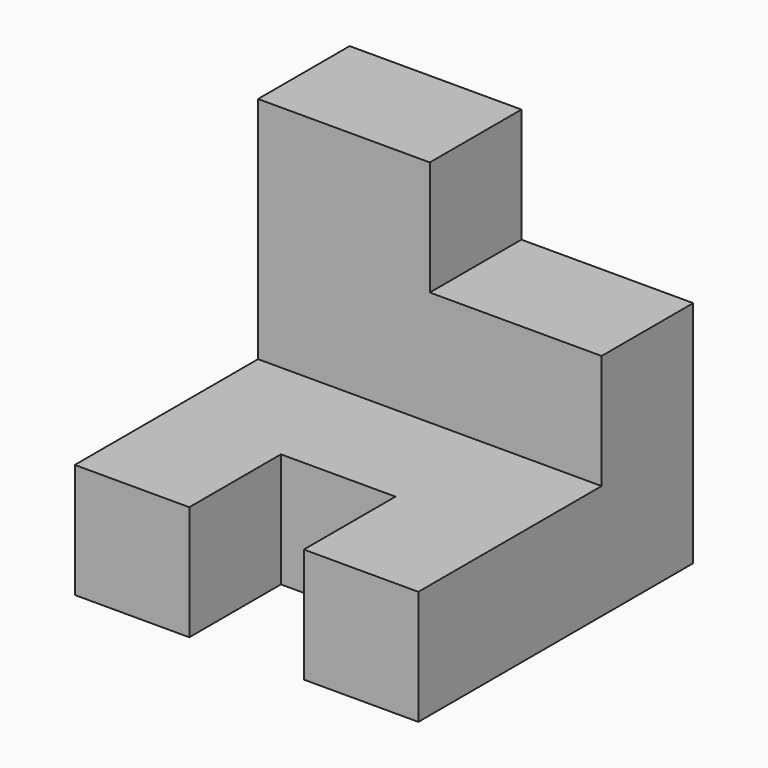
from build123d import *

# Parameters (mm, degrees)
F1_DEPTH = 30
F2_W     = 10
F2_H     = 10
F3_DEPTH = 10.001
F4_W     = 15
F4_H     = 10
F5_DEPTH = 10.001


with BuildPart() as f1:
    # F0 (on Right) → F1 (new body)
    with BuildSketch(Plane.YZ):
        Polygon((0, 10), (0, 0), (30, 0), (30, 30), (20, 30), (20, 10), align=None)
    extrude(amount=F1_DEPTH)

    # F2 (on face) → F3 (cut, through all)
    with BuildSketch(Plane.XY.offset(10)):
        with Locations((15, 5)):
            Rectangle(F2_W, F2_H)
    extrude(amount=-F3_DEPTH, mode=Mode.SUBTRACT)

    # F4 (on face) → F5 (cut, through all)
    with BuildSketch(Plane.XZ.offset(-20)):
        with Locations((22.5, 25)):
            Rectangle(F4_W, F4_H)
    extrude(amount=-F5_DEPTH, mode=Mode.SUBTRACT)


solid = f1.part
